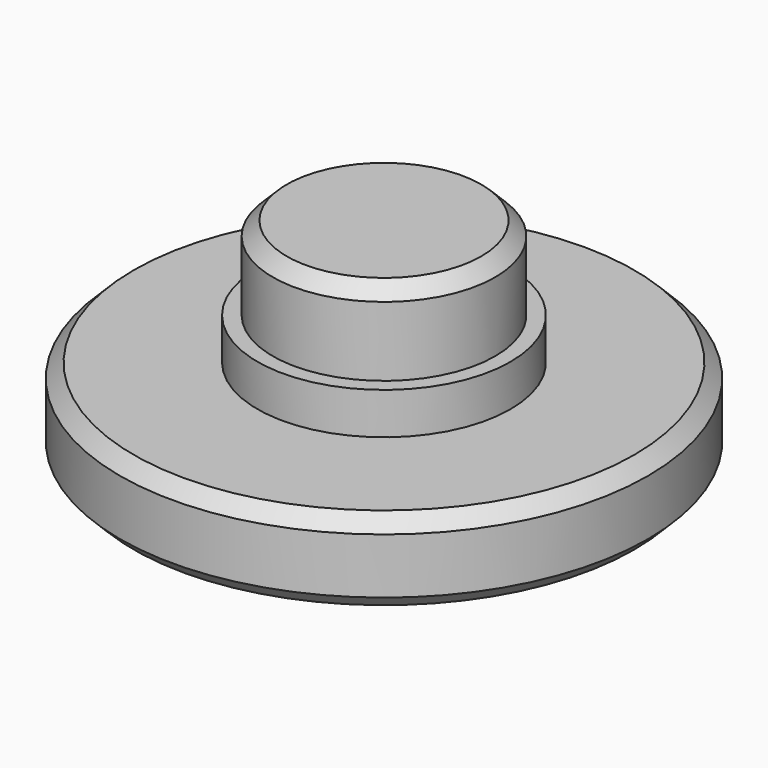
from build123d import *

# Parameters (mm, degrees)
F0_R     = 9.5
F1_DEPTH = 3
F2_R     = 4
F3_DEPTH = 4.5
F4_SIZE  = 0.5
F5_R     = 4.55
F6_DEPTH = 1.5


with BuildPart() as f1:
    # F0 (on Top) → F1 (new body)
    with BuildSketch(Plane.XY):
        Circle(F0_R)
    extrude(amount=F1_DEPTH)

    # F2 (on face) → F3 (join)
    with BuildSketch(Plane.XY.offset(3)):
        Circle(F2_R)
    extrude(amount=F3_DEPTH)

    # F4
    f4_edges = [f1.edges().sort_by_distance(p)[0] for p in [
        (-4, 0, 7.5),
        (-9.5, 0, 3),
        (-9.5, 0, 0),
    ]]
    chamfer(f4_edges, length=F4_SIZE)

    # F5 (on face) → F6 (join)
    with BuildSketch(Plane.XY.offset(3)):
        Circle(F5_R)
    extrude(amount=F6_DEPTH)


solid = f1.part
